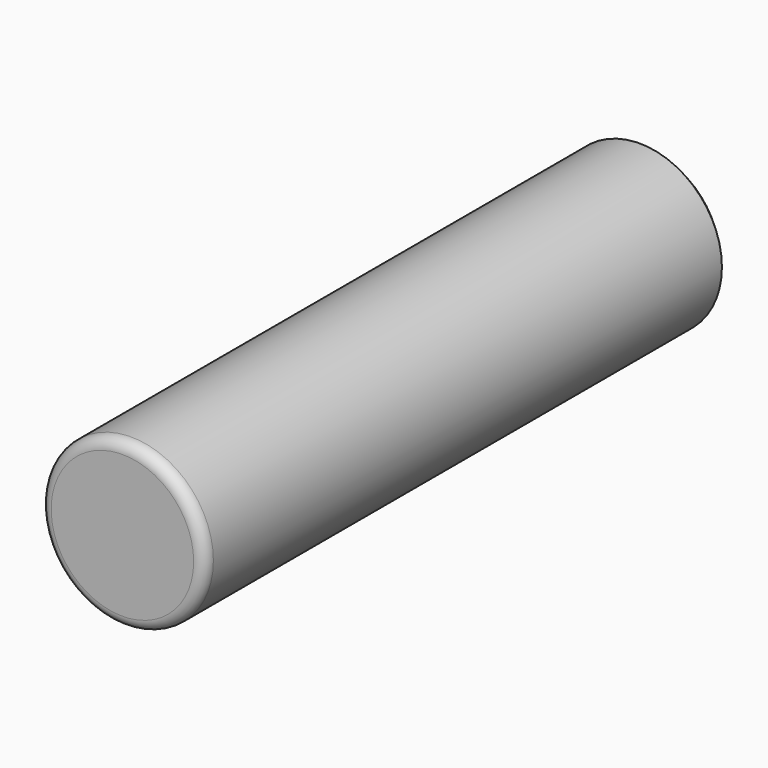
from build123d import *

# Parameters (mm, degrees)
F0_R     = 38.1
F1_DEPTH = 152.4
F2_R     = 5.08
F3_SIZE  = 5.08


with BuildPart() as f1:
    # F0 (on Front) → F1 (new body, symmetric)
    with BuildSketch(Plane.XZ):
        Circle(F0_R)
    extrude(amount=F1_DEPTH, both=True)

    # F2
    f2_edges = [f1.edges().sort_by_distance(p)[0] for p in [
        (-38.1, -152.4, 0),
    ]]
    fillet(f2_edges, radius=F2_R)

    # F3
    f3_edges = [f1.edges().sort_by_distance(p)[0] for p in [
        (38.1, 2.54, 0),
        (-38.1, -147.32, 0),
        (-38.1, 152.4, 0),
    ]]
    chamfer(f3_edges, length=F3_SIZE)


solid = f1.part
